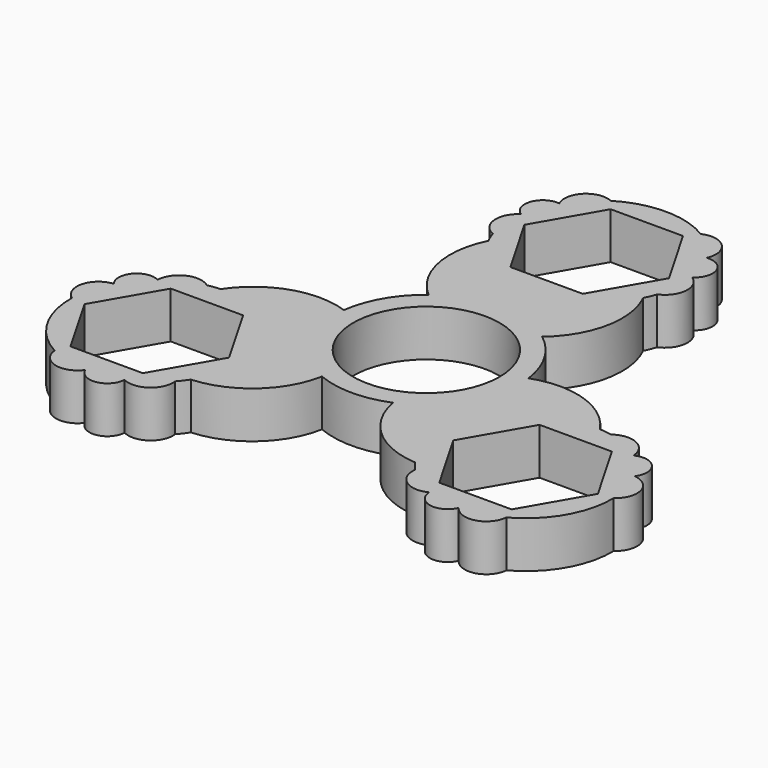
from build123d import *

# Parameters (mm, degrees)
F0_R     = 11
F1_DEPTH = 7
F3_DEPTH = 25


with BuildPart() as f1:
    # F0 (on Top) → F1 (new body)
    with BuildSketch(Plane.XY):
        with BuildLine():
            ThreePointArc((-16.867813, -23.168401), (-9.341205, -20.041676), (-5.337589, -12.942571))
            ThreePointArc((-5.337589, -12.942571), (-12.124356, -7), (-13.87739, 1.848798))
            ThreePointArc((-13.87739, 1.848798), (-22.027203, 1.931118), (-28.49833, -3.023754))
            ThreePointArc((-28.49833, -3.023754), (-29.433898, -3.114432), (-30.360469, -3.272474))
            ThreePointArc((-30.360469, -3.272474), (-33.819311, -2.907046), (-35.762261, -5.791847))
            ThreePointArc((-35.762261, -5.791847), (-39.059816, -6.445953), (-39.142749, -9.806733))
            ThreePointArc((-39.142749, -9.806733), (-41.985912, -12.202508), (-40.709221, -15.694408))
            ThreePointArc((-40.709221, -15.694408), (-38.971143, -22.5), (-33.946366, -27.408015))
            ThreePointArc((-33.946366, -27.408015), (-31.560638, -30.259612), (-28.064255, -28.995249))
            ThreePointArc((-28.064255, -28.995249), (-25.112267, -30.603816), (-22.897017, -28.075103))
            ThreePointArc((-22.897017, -28.075103), (-19.427231, -27.83486), (-18.01428, -24.6567))
            ThreePointArc((-18.01428, -24.6567), (-17.414126, -23.933288), (-16.867813, -23.168401))
        make_face()
        with BuildLine():
            ThreePointArc((5.337589, -12.942571), (11.634566, -7.786968), (14, 0))
            ThreePointArc((14, 0), (13.969314, 0.92643), (13.87739, 1.848798))
            ThreePointArc((13.87739, 1.848798), (12.124356, 7), (8.539801, 11.093773))
            ThreePointArc((8.539801, 11.093773), (0, 14), (-8.539801, 11.093773))
            ThreePointArc((-8.539801, 11.093773), (-12.124356, 7), (-13.87739, 1.848798))
            ThreePointArc((-13.87739, 1.848798), (-12.124356, -7), (-5.337589, -12.942571))
            ThreePointArc((-5.337589, -12.942571), (0, -14), (5.337589, -12.942571))
        make_face()
        Circle(F0_R, mode=Mode.SUBTRACT)
        with BuildLine():
            ThreePointArc((13.87739, 1.848798), (13.969314, 0.92643), (14, 0))
            ThreePointArc((14, 0), (11.634566, -7.786968), (5.337589, -12.942571))
            ThreePointArc((5.337589, -12.942571), (9.341205, -20.041676), (16.867813, -23.168401))
            ThreePointArc((16.867813, -23.168401), (17.414126, -23.933288), (18.01428, -24.6567))
            ThreePointArc((18.01428, -24.6567), (19.427231, -27.83486), (22.897017, -28.075103))
            ThreePointArc((22.897017, -28.075103), (25.112267, -30.603816), (28.064255, -28.995249))
            ThreePointArc((28.064255, -28.995249), (31.560638, -30.259612), (33.946366, -27.408015))
            ThreePointArc((33.946366, -27.408015), (38.971143, -22.5), (40.709221, -15.694408))
            ThreePointArc((40.709221, -15.694408), (41.985912, -12.202508), (39.142749, -9.806733))
            ThreePointArc((39.142749, -9.806733), (39.059816, -6.445953), (35.762261, -5.791847))
            ThreePointArc((35.762261, -5.791847), (33.819311, -2.907046), (30.360469, -3.272474))
            ThreePointArc((30.360469, -3.272474), (29.433898, -3.114432), (28.49833, -3.023754))
            ThreePointArc((28.49833, -3.023754), (22.027203, 1.931118), (13.87739, 1.848798))
        make_face()
        with BuildLine():
            ThreePointArc((-8.539801, 11.093773), (0, 14), (8.539801, 11.093773))
            ThreePointArc((8.539801, 11.093773), (12.685998, 18.110559), (11.630517, 26.192155))
            ThreePointArc((11.630517, 26.192155), (12.019772, 27.04772), (12.346189, 27.929174))
            ThreePointArc((12.346189, 27.929174), (14.39208, 30.741906), (12.865244, 33.86695))
            ThreePointArc((12.865244, 33.86695), (13.947549, 37.049769), (11.078495, 38.801982))
            ThreePointArc((11.078495, 38.801982), (10.425274, 42.46212), (6.762854, 43.102423))
            ThreePointArc((6.762854, 43.102423), (0, 45), (-6.762854, 43.102423))
            ThreePointArc((-6.762854, 43.102423), (-10.425274, 42.46212), (-11.078495, 38.801982))
            ThreePointArc((-11.078495, 38.801982), (-13.947549, 37.049769), (-12.865244, 33.86695))
            ThreePointArc((-12.865244, 33.86695), (-14.39208, 30.741906), (-12.346189, 27.929174))
            ThreePointArc((-12.346189, 27.929174), (-12.019772, 27.04772), (-11.630517, 26.192155))
            ThreePointArc((-11.630517, 26.192155), (-12.685998, 18.110559), (-8.539801, 11.093773))
        make_face()
    extrude(amount=F1_DEPTH)

    # F2 (on face) → F3 (cut)
    with BuildSketch(Plane.XY.offset(7)):
        Polygon((5.435753, 41.415), (-5.435753, 41.415), (-10.871506, 32), (-5.435753, 22.585), (5.435753, 22.585), (10.871506, 32), align=None)
        Polygon((-38.584318, -16), (-33.148566, -25.415), (-22.27706, -25.415), (-16.841307, -16), (-22.27706, -6.585), (-33.148566, -6.585), align=None)
        Polygon((33.148566, -25.415), (38.584318, -16), (33.148566, -6.585), (22.27706, -6.585), (16.841307, -16), (22.27706, -25.415), align=None)
    extrude(amount=-F3_DEPTH, mode=Mode.SUBTRACT)


solid = f1.part
